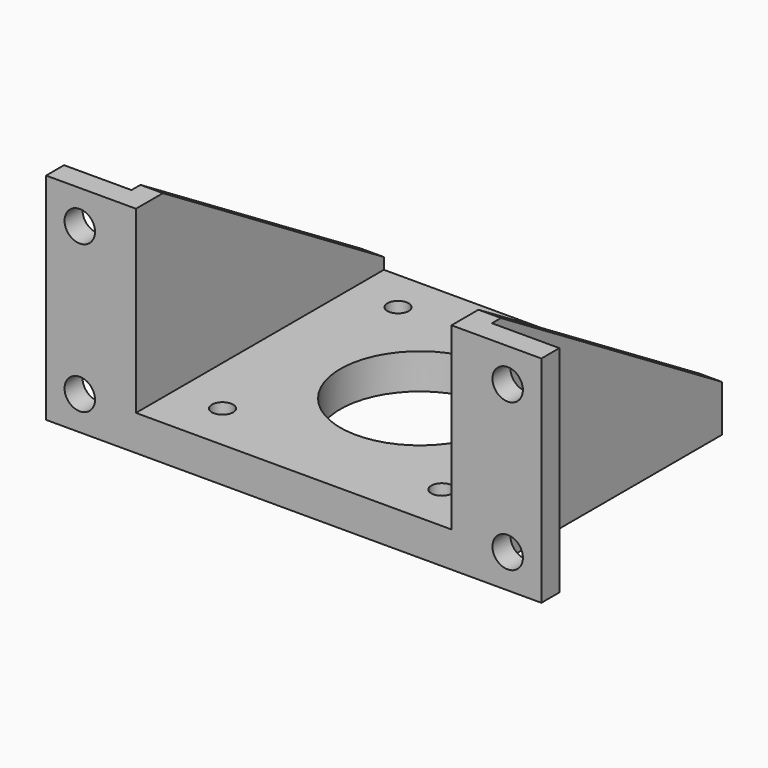
from build123d import *

# Parameters (mm, degrees)
F0_R     = 1.5
F0_R_2   = 11.253
F1_DEPTH = 5
F3_DEPTH = 25.4
F4_R     = 2.15265
F5_DEPTH = 3.175
F7_DEPTH = 50.943485


with BuildPart() as f1:
    # F0 (on Top) → F1 (new body)
    with BuildSketch(Plane.XY):
        Polygon((25.471742, 21.502992), (-25.471742, 21.502992), (-25.471742, -19.121742), (-34.996742, -19.121742), (-34.996742, -22.296742), (34.996742, -22.296742), (34.996742, -19.121742), (25.471742, -19.121742), align=None)
        with Locations((-15.499994, -15.499994)):
            Circle(F0_R, mode=Mode.SUBTRACT)
        with Locations((15.499994, -15.499994)):
            Circle(F0_R, mode=Mode.SUBTRACT)
        Circle(F0_R_2, mode=Mode.SUBTRACT)
        with Locations((-15.499994, 15.499994)):
            Circle(F0_R, mode=Mode.SUBTRACT)
        with Locations((15.499994, 15.499994)):
            Circle(F0_R, mode=Mode.SUBTRACT)
    extrude(amount=F1_DEPTH)

    # F2 (on face) → F3 (join)
    with BuildSketch(Plane.XY.offset(5)):
        Polygon((-34.996742, -19.121742), (-34.996742, -22.296742), (-22.296742, -22.296742), (-22.296742, 21.502992), (-25.471742, 21.502992), (-25.471742, -19.121742), align=None)
        Polygon((25.471742, -19.121742), (25.471742, 21.502992), (22.296742, 21.502992), (22.296742, -22.296742), (34.996742, -22.296742), (34.996742, -19.121742), align=None)
    extrude(amount=F3_DEPTH)

    # F4 (on face) → F5 (cut, through all)
    with BuildSketch(Plane(origin=(0, -19.121742, 0), x_dir=(-1, 0, 0), z_dir=(0, 1, 0))):
        with Locations((30.234242, 4.7625)):
            Circle(F4_R)
        with Locations((30.234242, 25.6375)):
            Circle(F4_R)
        with Locations((-30.234242, 25.6375)):
            Circle(F4_R)
        with Locations((-30.234242, 4.7625)):
            Circle(F4_R)
    extrude(amount=-F5_DEPTH, mode=Mode.SUBTRACT)

    # F6 (on face) → F7 (cut, through all)
    with BuildSketch(Plane.YZ.offset(25.471742)):
        Polygon((21.502992, 6.5875), (21.502992, 30.4), (-17.534242, 30.4), align=None)
    extrude(amount=-F7_DEPTH, mode=Mode.SUBTRACT)


solid = f1.part
